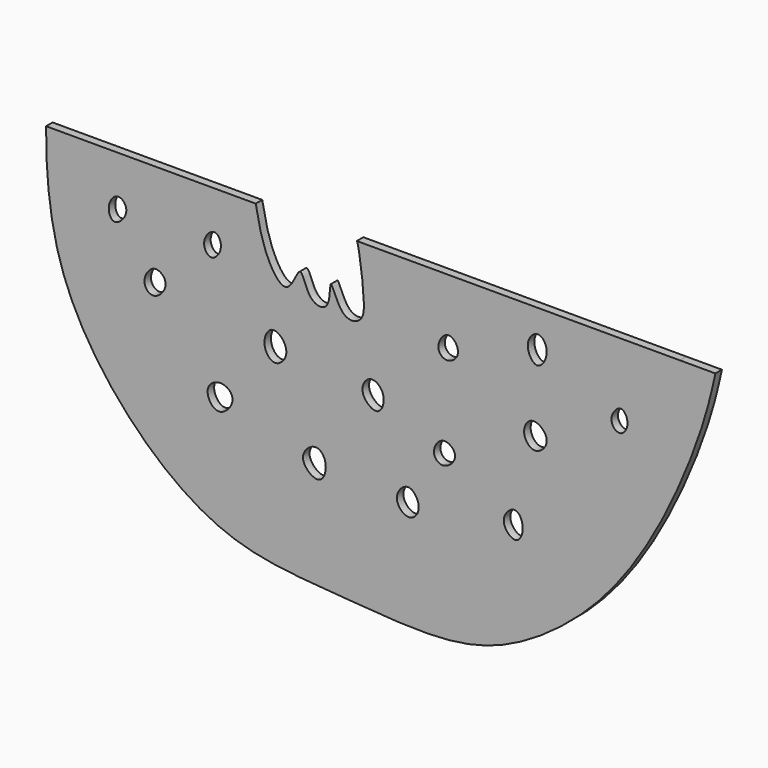
from build123d import *

# Parameters (mm, degrees)
F1_DEPTH = 1.27


with BuildPart() as f1:
    # F0 (on Front) → F1 (new body)
    with BuildSketch(Plane.XZ):
        with BuildLine():
            add(Edge.make_bspline(
                [(-13.5591362903, 24.7790648271), (-13.0834608044, 22.291858025), (-12.2665437396, 18.0203709693), (-8.4542859828, 13.0829349334), (-6.5030579203, 19.8007199643), (-5.5934908956, 14.0107170993), (-1.7323204667, 13.449062117), (-2.2527565686, 19.8672687747), (-0.3947921842, 13.2047404177), (3.2674855955, 13.7263716082), (3.4317383576, 17.4841734239), (2.4532237041, 24.5032885216), (2.1746347359, 24.7790648271)],
                knots=[0, 0, 0, 0, 0.1356677694, 0.2329935414, 0.3236676546, 0.4154118193, 0.4934285745, 0.5818043409, 0.6795946477, 0.7574505905, 0.8542770579, 0.9855709672, 0.9855709672, 0.9855709672, 0.9855709672], degree=3))
            Line((-13.5591362903, 24.7790648271), (-41.961529974, 24.7790648271))
            Line((-41.961529974, 24.7790648271), (-41.961529974, 18.6641987998))
            Line((-41.961529974, 18.6641987998), (-39.6975742021, 8.2499970336))
            Line((-39.6975742021, 8.2499970336), (-30.3021536508, -7.1449048232))
            Line((-30.3021536508, -7.1449048232), (-15.3600422034, -18.2382936004))
            Line((-15.3600422034, -18.2382936004), (-2.7950831988, -19.5966657597))
            Line((-2.7950831988, -19.5966657597), (5.3444972894, -19.5966657597))
            Line((5.3444972894, -19.5966657597), (11.5810402369, -19.5966657597))
            Line((11.5810402369, -19.5966657597), (21.3160535952, -18.2382936004))
            Line((21.3160535952, -18.2382936004), (36.3713635763, -7.7108946975))
            Line((36.3713635763, -7.7108946975), (47.4647528192, 7.6373227526))
            Line((47.4647528192, 7.6373227526), (51.061207678, 19.2301858802))
            Line((51.061207678, 19.2301858802), (52.4455830286, 24.7800621037))
            Line((52.4455830286, 24.7800621037), (2.1746347359, 24.7790648271))
        make_face()
        with BuildLine():
            add(Edge.make_bspline(
                [(-4.2666548231, -5.5601365279), (-5.159228289, -5.5857632686), (-7.4306682644, -7.7367693792), (-3.4411373263, -11.0977360792), (-2.1350401601, -7.248612386), (-3.4515747704, -5.5367347062), (-4.2666548231, -5.5601365279)],
                knots=[0, 0, 0, 0, 0.2537616603, 0.5212108644, 0.7682699796, 1, 1, 1, 1], degree=3))
        make_face(mode=Mode.SUBTRACT)
        with BuildLine():
            add(Edge.make_bspline(
                [(-18.8691743949, -1.5982120644), (-19.8158977492, -1.5171230906), (-21.948433656, -2.7696200574), (-19.579885169, -6.9159877882), (-16.1736746251, -3.2094212032), (-17.9603972328, -1.676050862), (-18.8691743949, -1.5982120644)],
                knots=[0, 0, 0, 0, 0.2419770774, 0.4995098981, 0.7677217524, 1, 1, 1, 1], degree=3))
        make_face(mode=Mode.SUBTRACT)
        with BuildLine():
            add(Edge.make_bspline(
                [(10.2226666807, -6.3525206756), (9.368220824, -6.2881647513), (7.460763823, -8.4379001208), (10.2310534958, -11.3002186359), (12.5628946057, -8.8140441172), (11.0973732932, -6.4184026178), (10.2226666807, -6.3525206756)],
                knots=[0, 0, 0, 0, 0.2533738468, 0.5067476613, 0.7406181123, 1, 1, 1, 1], degree=3))
        make_face(mode=Mode.SUBTRACT)
        with BuildLine():
            add(Edge.make_bspline(
                [(26.7495478204, -4.0885649036), (26.0006928051, -4.0530699383), (24.0493058448, -6.1442499641), (27.0667881389, -9.1865052405), (28.4786546481, -6.1112884905), (27.4600979127, -4.1222442547), (26.7495478204, -4.0885649036)],
                knots=[0, 0, 0, 0, 0.2564019403, 0.5163492084, 0.7567133576, 1, 1, 1, 1], degree=3))
        make_face(mode=Mode.SUBTRACT)
        with BuildLine():
            add(Edge.make_bspline(
                [(-29.2833724359, 10.7403498728), (-30.1659244778, 10.5918423903), (-31.6009583502, 8.2974670899), (-29.3285668749, 6.1508465732), (-26.6585139647, 9.3050246917), (-28.5007012346, 10.8720503553), (-29.2833724359, 10.7403498728)],
                knots=[0, 0, 0, 0, 0.2679927207, 0.4923676393, 0.7623367522, 1, 1, 1, 1], degree=3))
        make_face(mode=Mode.SUBTRACT)
        with BuildLine():
            add(Edge.make_bspline(
                [(-10.8321287969, 8.3631974299), (-11.6620907892, 8.2929965899), (-12.8905836504, 5.8952305214), (-10.5345876221, 2.9390975112), (-7.7939941864, 6.1142743346), (-9.9567341721, 8.4372411071), (-10.8321287969, 8.3631974299)],
                knots=[0, 0, 0, 0, 0.2475606423, 0.4912213937, 0.7388877351, 1, 1, 1, 1], degree=3))
        make_face(mode=Mode.SUBTRACT)
        with BuildLine():
            add(Edge.make_bspline(
                [(4.3363800671, 6.5520320673), (3.5577380904, 6.391624485), (2.179866216, 4.2903156755), (5.7066895354, 1.2528717405), (6.9362794385, 5.3367959307), (5.1051430074, 6.710404475), (4.3363800671, 6.5520320673)],
                knots=[0, 0, 0, 0, 0.2419489185, 0.5061427993, 0.7611208135, 1, 1, 1, 1], degree=3))
        make_face(mode=Mode.SUBTRACT)
        with BuildLine():
            add(Edge.make_bspline(
                [(-34.943265591, 18.7773954708), (-35.6341405761, 18.7712745621), (-36.9323605657, 17.0742322563), (-35.6780564797, 14.1492562932), (-32.8774222812, 17.1655056074), (-34.3012185658, 18.783083781), (-34.943265591, 18.7773954708)],
                knots=[0, 0, 0, 0, 0.2536991734, 0.4900240377, 0.7642311517, 1, 1, 1, 1], degree=3))
        make_face(mode=Mode.SUBTRACT)
        with BuildLine():
            add(Edge.make_bspline(
                [(-20.0011522809, 18.7773954708), (-20.6796509637, 18.7989822207), (-22.2795024855, 16.9096469057), (-20.4482012472, 14.250911605), (-18.3929293505, 17.0221992675), (-19.3964471176, 18.758156496), (-20.0011522809, 18.7773954708)],
                knots=[0, 0, 0, 0, 0.2644252518, 0.503667883, 0.7643336397, 1, 1, 1, 1], degree=3))
        make_face(mode=Mode.SUBTRACT)
        with BuildLine():
            add(Edge.make_bspline(
                [(15.6561623028, 1.7977234561), (14.7973911012, 1.6620825521), (13.4969814562, -0.4536657912), (15.681256175, -2.32933232), (18.4413524665, 0.3392592139), (16.4688164586, 1.9260802805), (15.6561623028, 1.7977234561)],
                knots=[0, 0, 0, 0, 0.2622356801, 0.4877750205, 0.7518466911, 1, 1, 1, 1], degree=3))
        make_face(mode=Mode.SUBTRACT)
        with BuildLine():
            add(Edge.make_bspline(
                [(29.5794962606, 9.0423849065), (28.7478099057, 8.9610426826), (27.5428316992, 6.9484466332), (29.8478087303, 4.0908509871), (32.811800239, 7.1826982668), (30.4823681992, 9.1306893628), (29.5794962606, 9.0423849065)],
                knots=[0, 0, 0, 0, 0.2401299731, 0.4859547546, 0.7393168554, 1, 1, 1, 1], degree=3))
        make_face(mode=Mode.SUBTRACT)
        with BuildLine():
            add(Edge.make_bspline(
                [(16.4485464504, 16.5134396989), (15.6413216316, 16.4926784086), (14.1475957049, 14.2629692088), (16.21137761, 12.363027208), (18.7366407347, 14.4441995955), (17.2172289409, 16.5332097059), (16.4485464504, 16.5134396989)],
                knots=[0, 0, 0, 0, 0.2679068434, 0.4950858583, 0.7448848267, 1, 1, 1, 1], degree=3))
        make_face(mode=Mode.SUBTRACT)
        with BuildLine():
            add(Edge.make_bspline(
                [(30.3718804082, 21.154551639), (29.6438548431, 21.1738694665), (27.994578728, 19.3228912159), (30.2816650446, 15.584216728), (32.4141225761, 19.2835923038), (31.0795543728, 21.1357738321), (30.3718804082, 21.154551639)],
                knots=[0, 0, 0, 0, 0.2444958301, 0.5034173583, 0.762338932, 1, 1, 1, 1], degree=3))
        make_face(mode=Mode.SUBTRACT)
        with BuildLine():
            add(Edge.make_bspline(
                [(43.2764350137, 15.1550647456), (42.6210844987, 15.1790658542), (41.0804364043, 13.1935149596), (43.1069628957, 11.0491863981), (44.8175331013, 13.2611395096), (43.8834011874, 15.132835632), (43.2764350137, 15.1550647456)],
                knots=[0, 0, 0, 0, 0.2680735368, 0.5072050589, 0.7517182559, 1, 1, 1, 1], degree=3))
        make_face(mode=Mode.SUBTRACT)
        with BuildLine():
            Line((-41.961529974, 18.6641987998), (-41.961529974, 24.7790648271))
            Line((-41.961529974, 24.7790648271), (-46.1841986814, 24.7790648271))
            add(Edge.make_bspline(
                [(-46.1841986814, 24.7790648271), (-46.1804933535, 22.9317964443), (-46.1712870902, 18.3420705869), (-44.4927497014, 4.4373515693), (-34.2486375995, -11.5121396656), (-18.5942594671, -23.5310679777), (-2.008210534, -24.4654861962), (12.325259504, -25.8607560131), (25.2774313642, -24.5013290259), (41.7803714183, -12.4421439424), (51.9367788105, 5.498620842), (56.5490511329, 18.2552332769), (57.5680861973, 22.8894086761), (57.9838326833, 24.7800621037)],
                knots=[0, 0, 0, 0, 0.0597429453, 0.1484374136, 0.2539542668, 0.3594793444, 0.4568173382, 0.5477892535, 0.6331550353, 0.7403248211, 0.8513781007, 0.9393651558, 1, 1, 1, 1], degree=3))
            Line((57.9838326833, 24.7800621037), (52.4455830286, 24.7800621037))
            Line((52.4455830286, 24.7800621037), (51.061207678, 19.2301858802))
            Line((51.061207678, 19.2301858802), (47.4647528192, 7.6373227526))
            Line((47.4647528192, 7.6373227526), (36.3713635763, -7.7108946975))
            Line((36.3713635763, -7.7108946975), (21.3160535952, -18.2382936004))
            Line((21.3160535952, -18.2382936004), (11.5810402369, -19.5966657597))
            Line((11.5810402369, -19.5966657597), (5.3444972894, -19.5966657597))
            Line((5.3444972894, -19.5966657597), (-2.7950831988, -19.5966657597))
            Line((-2.7950831988, -19.5966657597), (-15.3600422034, -18.2382936004))
            Line((-15.3600422034, -18.2382936004), (-30.3021536508, -7.1449048232))
            Line((-30.3021536508, -7.1449048232), (-39.6975742021, 8.2499970336))
            Line((-39.6975742021, 8.2499970336), (-41.961529974, 18.6641987998))
        make_face()
    extrude(amount=F1_DEPTH)


solid = f1.part
